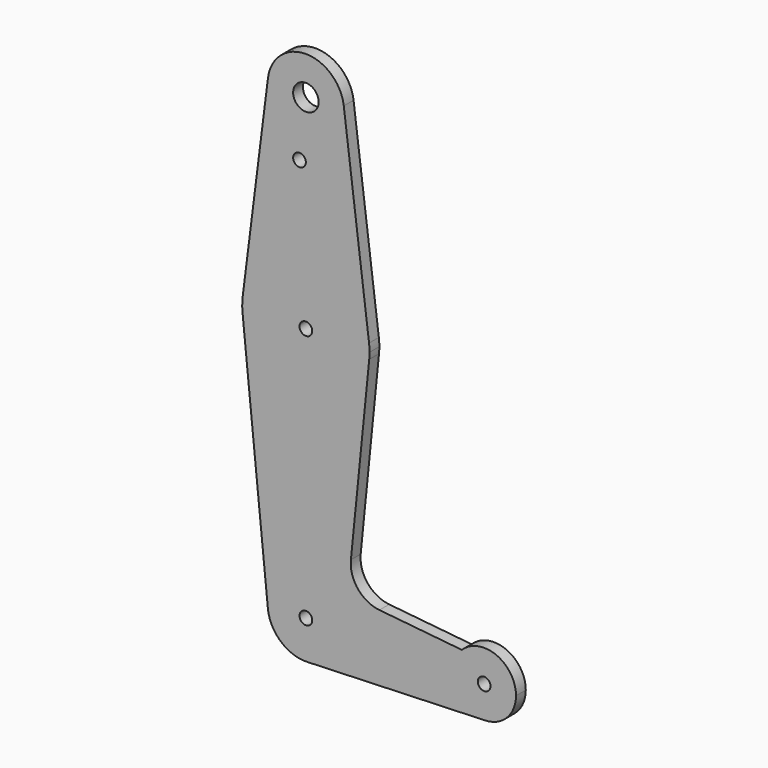
from build123d import *

# Parameters (mm, degrees)
F0_R     = 1.5875
F0_R_2   = 3.175
F1_DEPTH = 3.048


with BuildPart() as f1:
    # F0 (on Front) → F1 (new body)
    with BuildSketch(Plane.XZ):
        with BuildLine():
            ThreePointArc((-15.750488, 65.484375), (-15.873744, 63.699705), (-15.795426, 61.9125))
            ThreePointArc((-15.795426, 61.9125), (0, 47.625), (15.795426, 61.9125))
            ThreePointArc((15.795426, 61.9125), (15.855094, 62.705253), (15.875, 63.5))
            ThreePointArc((15.875, 63.5), (15.843841, 64.494139), (15.750488, 65.484375))
            ThreePointArc((15.750488, 65.484375), (0, 79.375), (-15.750488, 65.484375))
        make_face()
        with Locations((0, 63.5)):
            Circle(F0_R, mode=Mode.SUBTRACT)
        with BuildLine():
            Line((-9.450293, 115.490625), (-15.750488, 65.484375))
            ThreePointArc((-15.750488, 65.484375), (0, 79.375), (15.750488, 65.484375))
            Line((15.750488, 65.484375), (9.450293, 115.490625))
            ThreePointArc((9.450293, 115.490625), (9.506305, 114.896483), (9.525, 114.3))
            ThreePointArc((9.525, 114.3), (-0.596483, 104.793695), (-9.450293, 115.490625))
        make_face()
        with Locations((-1.5875, 100.0252)):
            Circle(F0_R, mode=Mode.SUBTRACT)
        with BuildLine():
            ThreePointArc((9.450293, 115.490625), (0, 123.825), (-9.450293, 115.490625))
            ThreePointArc((-9.450293, 115.490625), (-0.596483, 104.793695), (9.525, 114.3))
            ThreePointArc((9.525, 114.3), (9.506305, 114.896483), (9.450293, 115.490625))
        make_face()
        with Locations((0, 114.3)):
            Circle(F0_R_2, mode=Mode.SUBTRACT)
        with BuildLine():
            ThreePointArc((-9.477255, -0.9525), (-0.476848, 9.513056), (9.525, 0))
            ThreePointArc((9.525, 0), (6.854408, -6.613827), (0.340179, -9.518923))
            Line((0.340179, -9.518923), (44.733482, -7.932436))
            ThreePointArc((44.733482, -7.932436), (37.157525, -3.13428), (38.889596, 5.664434))
            Line((38.889596, 5.664434), (18.340104, 7.729735))
            ThreePointArc((18.340104, 7.729735), (12.979499, 10.608787), (11.224775, 16.435104))
            Line((11.224775, 16.435104), (15.795426, 61.9125))
            ThreePointArc((15.795426, 61.9125), (0, 47.625), (-15.795426, 61.9125))
            Line((-15.795426, 61.9125), (-9.477255, -0.9525))
        make_face()
        with BuildLine():
            ThreePointArc((0.340179, -9.518923), (6.854408, -6.613827), (9.525, 0))
            ThreePointArc((9.525, 0), (-0.476848, 9.513056), (-9.477255, -0.9525))
            ThreePointArc((-9.477255, -0.9525), (-6.262383, -7.17692), (0.340179, -9.518923))
        make_face()
        Circle(F0_R, mode=Mode.SUBTRACT)
        with BuildLine():
            ThreePointArc((38.889596, 5.664434), (37.157525, -3.13428), (44.733482, -7.932436))
            ThreePointArc((44.733482, -7.932436), (50.162007, -5.511523), (52.3875, 0))
            ThreePointArc((52.3875, 0), (47.521498, 7.31914), (38.889596, 5.664434))
        make_face()
        with Locations((44.45, 0)):
            Circle(F0_R, mode=Mode.SUBTRACT)
    extrude(amount=F1_DEPTH)


solid = f1.part
